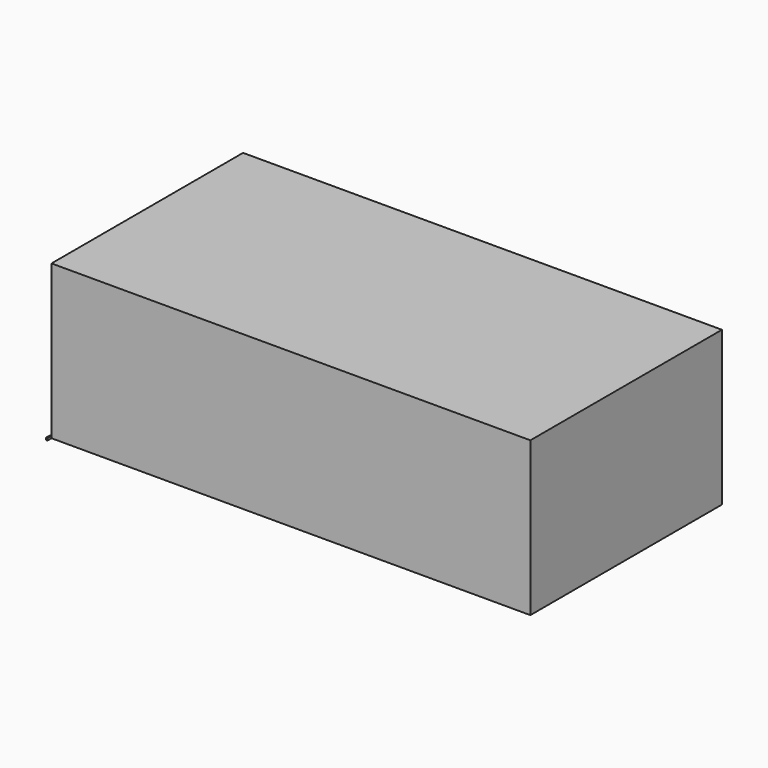
from build123d import *

# Parameters (mm, degrees)
F0_W     = 8534.4
F0_H     = 2743.2
F1_DEPTH = 4267.2
F2_W     = 88.9
F2_H     = 38.1
F3_DEPTH = 25.4


with BuildPart() as f1:
    # F0 (on Front) → F1 (new body)
    with BuildSketch(Plane.XZ):
        with Locations((4267.2, 1371.6)):
            Rectangle(F0_W, F0_H)
    extrude(amount=F1_DEPTH)


with BuildPart() as f3:
    # F2 (on face) → F3 (new body)
    with BuildSketch(Plane(origin=(0, 0, 0), x_dir=(0, -1, 0), z_dir=(-1, 0, 0))):
        with Locations((4311.65, 19.05)):
            Rectangle(F2_W, F2_H)
    extrude(amount=F3_DEPTH)


solid = Compound([f1.part, f3.part])
